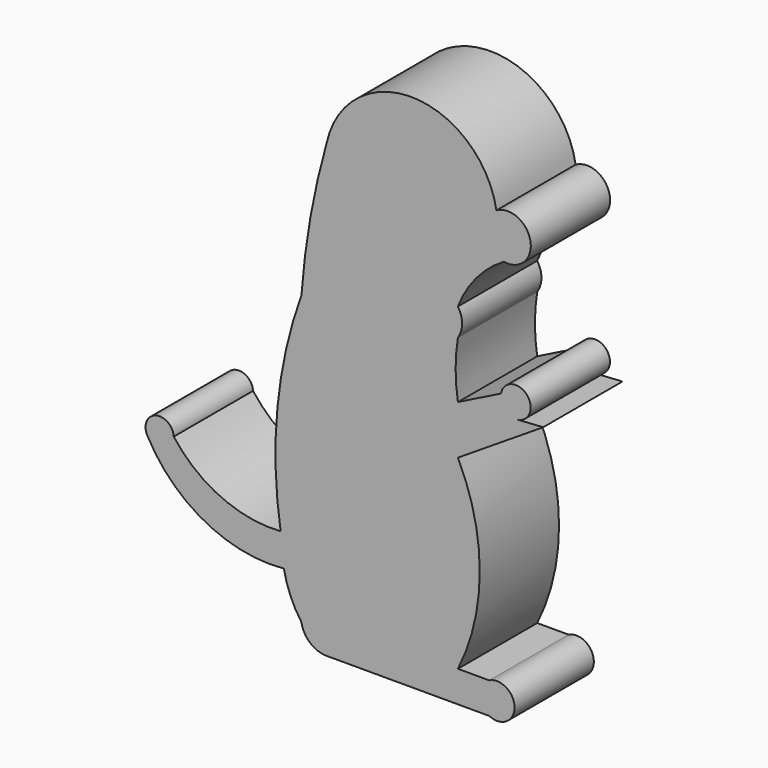
from build123d import *

# Parameters (mm, degrees)
F1_DEPTH = 12.7


with BuildPart() as f1:
    # F0 (on Front) → F1 (new body)
    with BuildSketch(Plane.XZ):
        with BuildLine():
            ThreePointArc((45.659669, 43.789603), (49.07354, 47.207987), (44.703573, 49.267903))
            ThreePointArc((44.703573, 49.267903), (34.051612, 58.522614), (22.955889, 49.804881))
            ThreePointArc((22.955889, 49.804881), (20.871145, 40.757723), (19.714734, 31.545777))
            ThreePointArc((19.714734, 31.545777), (16.650538, 17.976794), (17.055664, 4.072029))
            ThreePointArc((17.055664, 4.072029), (9.415581, 5.443728), (3.358493, 10.298016))
            ThreePointArc((3.358493, 10.298016), (1.016335, 11.924756), (0, 9.260352))
            ThreePointArc((0, 9.260352), (7.346914, 2.010702), (17.47073, 0))
            ThreePointArc((17.47073, 0), (18.301019, -2.776931), (19.714734, -5.307176))
            ThreePointArc((19.714734, -5.307176), (20.827914, -7.282535), (22.955889, -8.06544))
            Line((22.955889, -8.06544), (39.524082, -8.06544))
            Line((39.524082, -8.06544), (43.786854, -8.06544))
            ThreePointArc((43.786854, -8.06544), (47.032645, -6.05943), (43.786854, -4.053419))
            Line((43.786854, -4.053419), (39.774835, -4.053419))
            ThreePointArc((39.774835, -4.053419), (42.573385, 7.857265), (39.774835, 19.767949))
            Line((39.774835, 19.767949), (50.701622, 26.749119))
            Line((50.701622, 26.749119), (47.29737, 26.538234))
            ThreePointArc((47.29737, 26.538234), (48.612442, 29.727127), (45.29136, 28.794995))
            Line((45.29136, 28.794995), (39.774835, 26.03673))
            ThreePointArc((39.774835, 26.03673), (39.482213, 29.672624), (39.774835, 33.308517))
            ThreePointArc((39.774835, 33.308517), (40.316203, 35.063775), (39.774835, 36.819033))
            ThreePointArc((39.774835, 36.819033), (42.127254, 40.802418), (45.659669, 43.789603))
        make_face()
    extrude(amount=F1_DEPTH)


solid = f1.part
